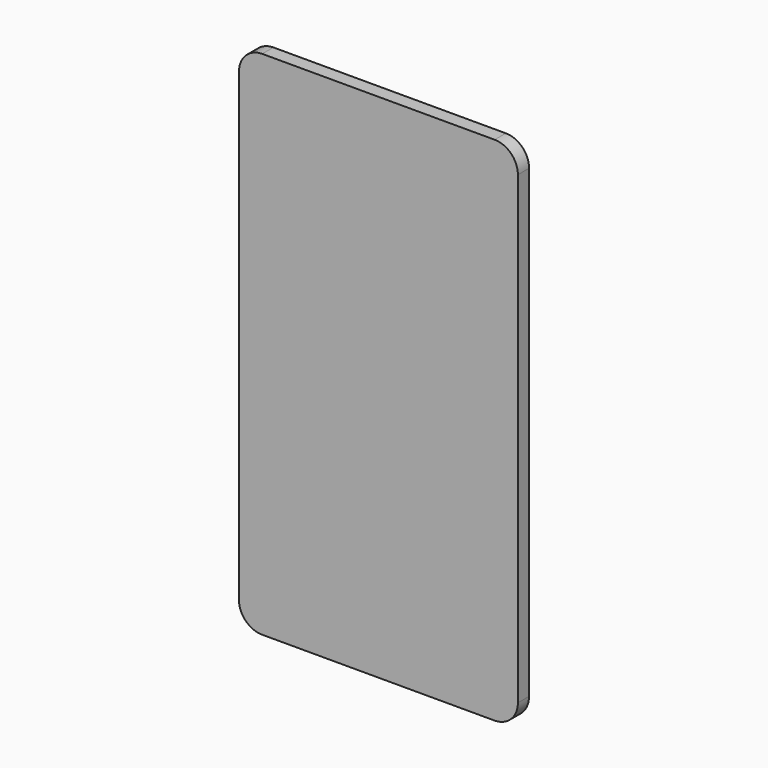
from build123d import *

# Parameters (mm, degrees)
F0_W     = 60
F0_H     = 110
F1_DEPTH = 3
F2_R     = 5
F3_R     = 5
F4_R     = 5


with BuildPart() as f1:
    # F0 (on Front) → F1 (new body)
    with BuildSketch(Plane.XZ):
        with Locations((-18.729537, -34.96376)):
            Rectangle(F0_W, F0_H)
    extrude(amount=F1_DEPTH)

    # F2
    f2_edges = [f1.edges().sort_by_distance(p)[0] for p in [
        (-48.729537, -1.5, -89.96376),
    ]]
    fillet(f2_edges, radius=F2_R)

    # F3
    f3_edges = [f1.edges().sort_by_distance(p)[0] for p in [
        (11.270463, -1.5, -89.96376),
    ]]
    fillet(f3_edges, radius=F3_R)

    # F4
    f4_edges = [f1.edges().sort_by_distance(p)[0] for p in [
        (-48.729537, -1.5, 20.03624),
        (11.270463, -1.5, 20.03624),
    ]]
    fillet(f4_edges, radius=F4_R)


solid = f1.part
